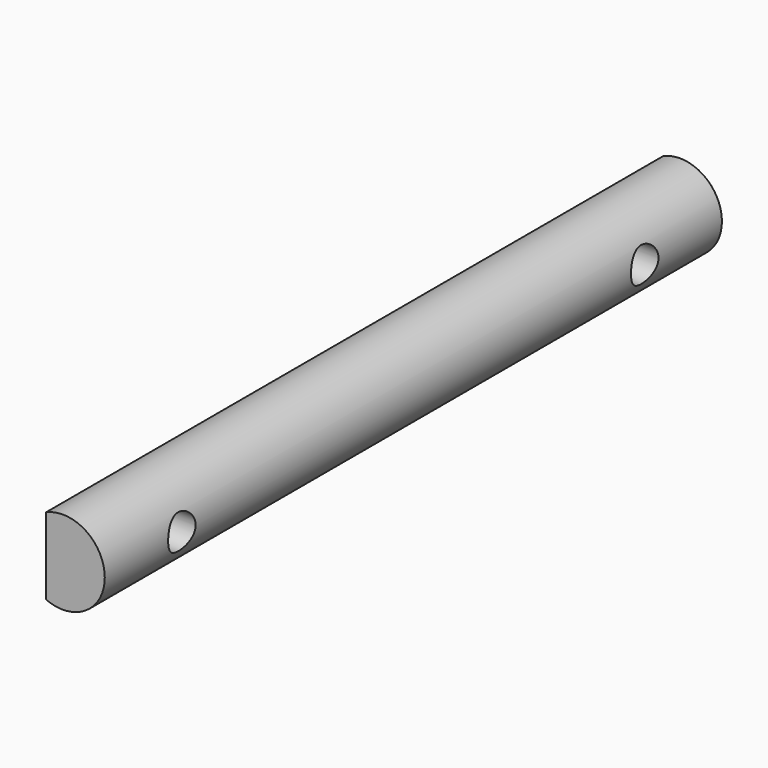
from build123d import *

# Parameters (mm, degrees)
F1_DEPTH = 92
F3_D     = 4.1


with BuildPart() as f1:
    # F0 (on Front) → F1 (new body)
    with BuildSketch(Plane.XZ):
        with BuildLine():
            Line((-2, 4.582575695), (-2, -4.582575695))
            ThreePointArc((-2, -4.582575695), (5, 0), (-2, 4.582575695))
        make_face()
    extrude(amount=-F1_DEPTH)

    # F3 (through all)
    with Locations(Plane(origin=(-2, 0, 0), x_dir=(0, -1, 0), z_dir=(-1, 0, 0))):
        with Locations((-80.5, 0), (-11.5, 0)):
            Hole(F3_D / 2)


solid = f1.part
